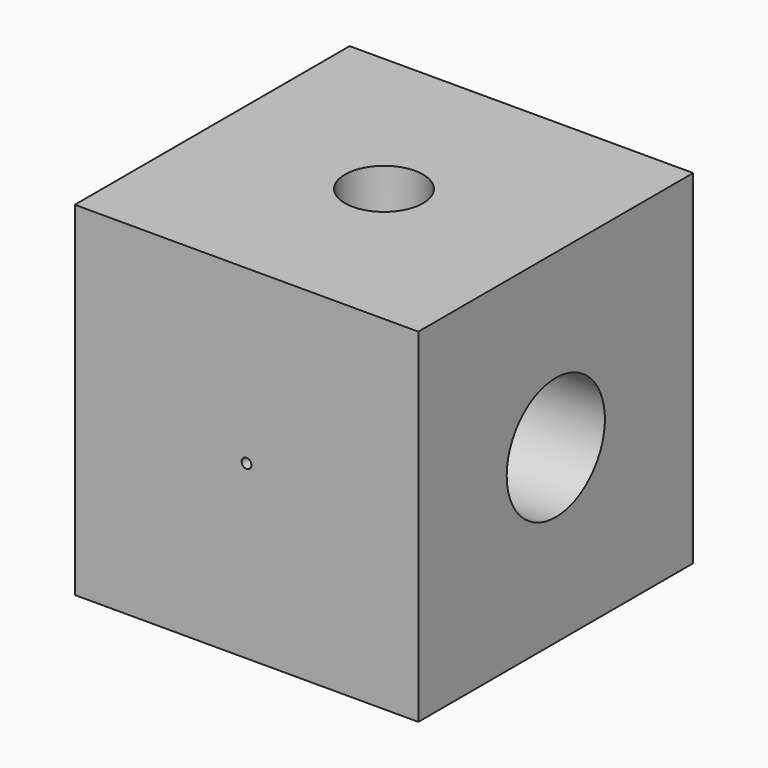
from build123d import *

# Parameters (mm, degrees)
F0_W     = 17.78
F0_H     = 17.78
F1_DEPTH = 8.89
F5_D     = 0.508
F5_DEPTH = 0.508
F5_TIP   = 0.1526185972
F6_D     = 4.0386
F6_DEPTH = 10.16
F6_TIP   = 1.213317848
F7_D     = 6.35
F7_DEPTH = 10.16
F7_TIP   = 1.9077324654


with BuildPart() as f1:
    # F0 (on Front) → F1 (new body, symmetric)
    with BuildSketch(Plane.XZ):
        Rectangle(F0_W, F0_H)
    extrude(amount=F1_DEPTH, both=True)

    # F5
    with Locations(Plane.XZ.offset(8.89)):
        with Locations((0, 0)):
            Hole(F5_D / 2, depth=F5_DEPTH)
            with Locations((0, 0, -(F5_DEPTH + F5_TIP / 2))):  # 118° drill point
                Cone(0, F5_D / 2, F5_TIP, mode=Mode.SUBTRACT)

    # F6
    with Locations(Plane.XY.offset(8.89)):
        with Locations((0, 0)):
            Hole(F6_D / 2, depth=F6_DEPTH)
            with Locations((0, 0, -(F6_DEPTH + F6_TIP / 2))):  # 118° drill point
                Cone(0, F6_D / 2, F6_TIP, mode=Mode.SUBTRACT)

    # F7
    with Locations(Plane.YZ.offset(8.89)):
        with Locations((0, 0)):
            Hole(F7_D / 2, depth=F7_DEPTH)
            with Locations((0, 0, -(F7_DEPTH + F7_TIP / 2))):  # 118° drill point
                Cone(0, F7_D / 2, F7_TIP, mode=Mode.SUBTRACT)


solid = f1.part
